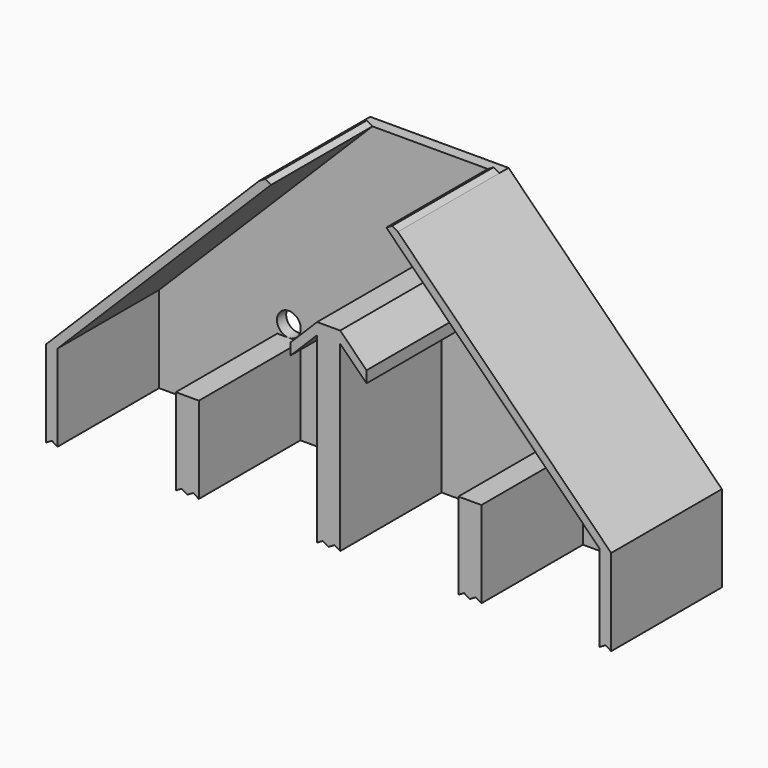
from build123d import *

# Parameters (mm, degrees)
SKETCH005_R      = 4.125
EXTRUDE007_DEPTH = 4
EXTRUDE004_DEPTH = 44


with BuildPart() as extrude007:
    # Sketch005 → Extrude007 (new body)
    with BuildSketch(Plane.XZ):
        Polygon((24, 74), (98, 0), (98, -30), (94, -30), (53, -30), (49, -30), (45, -30), (4, -30), (0, -30), (-4, -30), (-45, -30), (-49, -30), (-53, -30), (-94, -30), (-98, -30), (-98, 0), (-24, 74), (-20, 74), (20, 74), align=None)
        with Locations((-49, 4.125)):
            Circle(SKETCH005_R, mode=Mode.SUBTRACT)
        with Locations((49, 4.125)):
            Circle(SKETCH005_R, mode=Mode.SUBTRACT)
        with Locations((0, 41.339394)):
            Circle(SKETCH005_R, mode=Mode.SUBTRACT)
    extrude(amount=EXTRUDE007_DEPTH)


with BuildPart() as stage_3_paths:
    # Sketch → Extrude004 (new body)
    with BuildSketch(Plane.XZ):
        Polygon((-20, 74), (-94, 0), (-94, -30), (-96, -28.845299), (-98, -30), (-98, 0), (-24, 74), (-22, 75.154701), align=None)
        Polygon((24, 74), (98, 0), (98, -30), (96, -28.845299), (94, -30), (94, 0), (20, 74), (22, 75.154701), align=None)
        Polygon((4, 37.339394), (-4, 37.339394), (-13.145979, 28.193415), (-13.145979, 24.193415), (-4, 33.339394), (-4, 0), (-4, -30), (-2, -28.845299), (0, -30), (2, -28.845299), (4, -30), (4, 0), (4, 33.339394), (13.145979, 24.193415), (13.145979, 28.193415), align=None)
        Polygon((-53, 0), (-45, 0), (-45, -30), (-47, -28.845299), (-49, -30), (-51, -28.845299), (-53, -30), align=None)
        Polygon((45, 0), (53, 0), (53, -30), (51, -28.845299), (49, -30), (47, -28.845299), (45, -30), align=None)
    extrude(amount=EXTRUDE004_DEPTH)


with BuildPart() as stage_3_paths_1:
    # Extrude004 placement: moved
    add(stage_3_paths.part.moved(Location((0, -4, 0))))

    # Fusion005: union Extrude007
    add(extrude007.part)


solid = stage_3_paths_1.part
